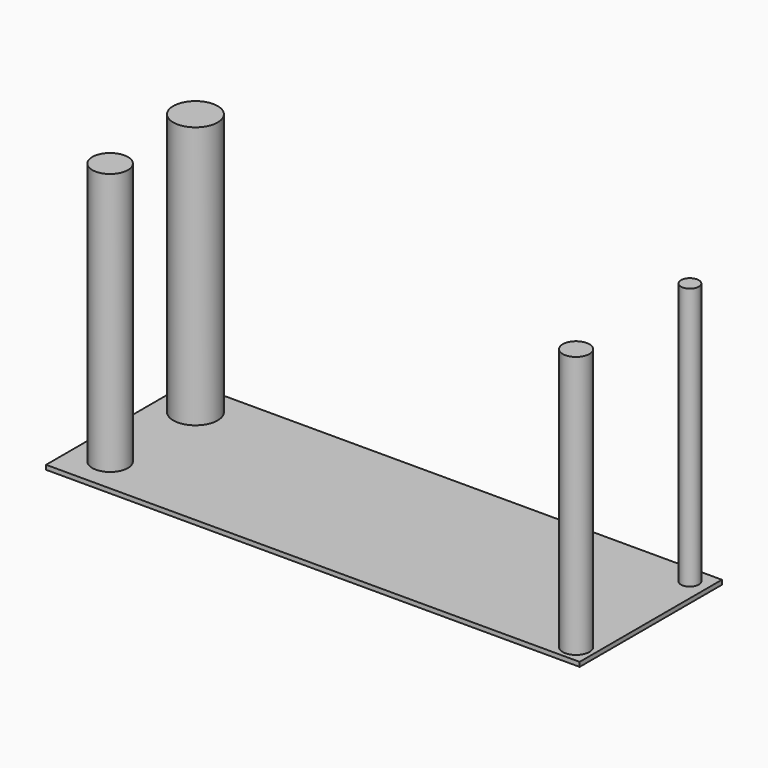
from build123d import *

# Parameters (mm, degrees)
F0_W     = 30
F0_H     = 10
F0_R     = 1
F0_R_2   = 0.75
F0_R_3   = 1.25
F0_R_4   = 0.5
F1_DEPTH = 0.25
F2_DEPTH = 15


with BuildPart() as f1:
    # F0 (on Top) → F1 (new body)
    with BuildSketch(Plane.XY):
        with Locations((0, 0.427538)):
            Rectangle(F0_W, F0_H)
        with Locations((-13, -2.572462)):
            Circle(F0_R, mode=Mode.SUBTRACT)
        with Locations((14, -3.572462)):
            Circle(F0_R_2, mode=Mode.SUBTRACT)
        with Locations((-13, 3.427538)):
            Circle(F0_R_3, mode=Mode.SUBTRACT)
        with Locations((14, 4.427538)):
            Circle(F0_R_4, mode=Mode.SUBTRACT)
    extrude(amount=F1_DEPTH)

    # F0 (on Top) → F2 (join)
    with BuildSketch(Plane.XY):
        with Locations((-13, 3.427538)):
            Circle(F0_R_3)
        with Locations((-13, -2.572462)):
            Circle(F0_R)
        with Locations((14, -3.572462)):
            Circle(F0_R_2)
        with Locations((14, 4.427538)):
            Circle(F0_R_4)
    extrude(amount=F2_DEPTH)


solid = f1.part
